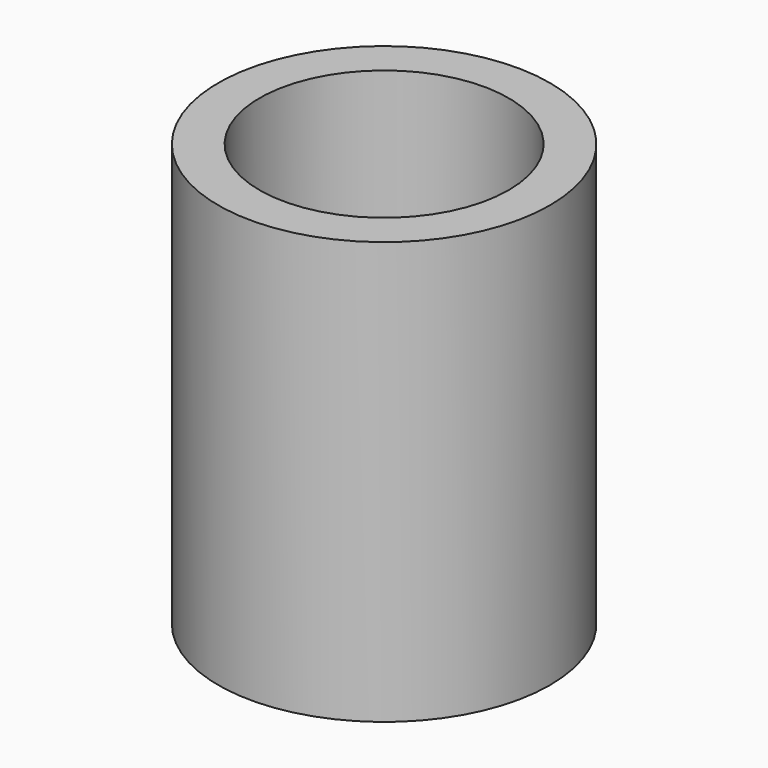
from build123d import *

# Parameters (mm, degrees)
CYLINDER_R        = 5.9
CYLINDER_DEPTH    = 20
CYLINDER001_R     = 7.85
CYLINDER001_DEPTH = 20


with BuildPart() as cylinder:
    # Cylinder → Cylinder (new body)
    with BuildSketch(Plane.XY):
        Circle(CYLINDER_R)
    extrude(amount=CYLINDER_DEPTH)


with BuildPart() as wheel_spacer:
    # Cylinder001 → Cylinder001 (new body)
    with BuildSketch(Plane.XY):
        Circle(CYLINDER001_R)
    extrude(amount=CYLINDER001_DEPTH)

    # Cut: cut Cylinder
    add(cylinder.part, mode=Mode.SUBTRACT)


solid = wheel_spacer.part
